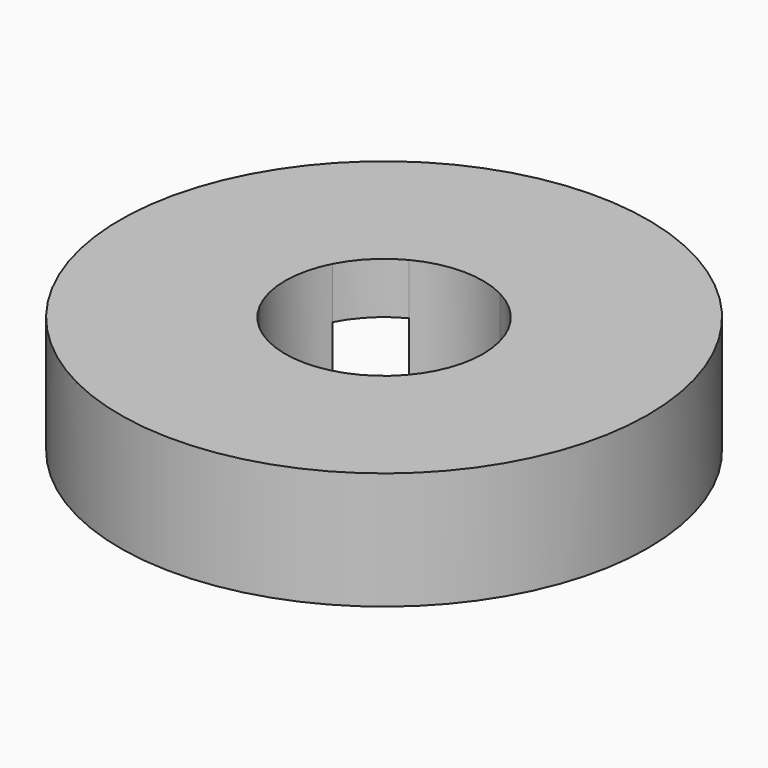
from build123d import *

# Parameters (mm, degrees)
F0_R     = 9
F1_DEPTH = 4
F2_DEPTH = 2.25


with BuildPart() as f1:
    # F0 (on Top) → F1 (new body)
    with BuildSketch(Plane.XY):
        Circle(F0_R)
        with BuildLine():
            ThreePointArc((3.0001584051, 1.5458572199), (3.27995119, 0.7953270971), (3.375, 0))
            ThreePointArc((3.375, 0), (3.27995119, -0.7953270971), (3.0001584051, -1.5458572199))
            ThreePointArc((3.0001584051, -1.5458572199), (5.4786682815, -1.8009001584), (6.65, -4))
            ThreePointArc((6.65, -4), (3.4905779585, -6.6005747795), (1.5458572199, -3.0001584051))
            ThreePointArc((1.5458572199, -3.0001584051), (0, -3.375), (-1.5458572199, -3.0001584051))
            ThreePointArc((-1.5458572199, -3.0001584051), (-1.3994252205, -3.4905779585), (-1.35, -4))
            ThreePointArc((-1.35, -4), (-6.1990998416, -5.4786682815), (-3.0001584051, -1.5458572199))
            ThreePointArc((-3.0001584051, -1.5458572199), (-3.375, 0), (-3.0001584051, 1.5458572199))
            ThreePointArc((-3.0001584051, 1.5458572199), (-6.1990998416, 5.4786682815), (-1.35, 4))
            ThreePointArc((-1.35, 4), (-1.3994252205, 3.4905779585), (-1.5458572199, 3.0001584051))
            ThreePointArc((-1.5458572199, 3.0001584051), (0, 3.375), (1.5458572199, 3.0001584051))
            ThreePointArc((1.5458572199, 3.0001584051), (3.4905779585, 6.6005747795), (6.65, 4))
            ThreePointArc((6.65, 4), (5.4786682815, 1.8009001584), (3.0001584051, 1.5458572199))
        make_face(mode=Mode.SUBTRACT)
        with BuildLine():
            ThreePointArc((-1.35, -4), (-1.3994252205, -3.4905779585), (-1.5458572199, -3.0001584051))
            ThreePointArc((-1.5458572199, -3.0001584051), (-2.3864853865, -2.3864853865), (-3.0001584051, -1.5458572199))
            ThreePointArc((-3.0001584051, -1.5458572199), (-6.1990998416, -5.4786682815), (-1.35, -4))
        make_face()
        with BuildLine():
            ThreePointArc((6.65, -4), (5.4786682815, -1.8009001584), (3.0001584051, -1.5458572199))
            ThreePointArc((3.0001584051, -1.5458572199), (2.3864853865, -2.3864853865), (1.5458572199, -3.0001584051))
            ThreePointArc((1.5458572199, -3.0001584051), (3.4905779585, -6.6005747795), (6.65, -4))
        make_face()
        with BuildLine():
            ThreePointArc((1.5458572199, 3.0001584051), (2.3864853865, 2.3864853865), (3.0001584051, 1.5458572199))
            ThreePointArc((3.0001584051, 1.5458572199), (5.4786682815, 1.8009001584), (6.65, 4))
            ThreePointArc((6.65, 4), (3.4905779585, 6.6005747795), (1.5458572199, 3.0001584051))
        make_face()
        with BuildLine():
            ThreePointArc((-3.0001584051, 1.5458572199), (-2.3864853865, 2.3864853865), (-1.5458572199, 3.0001584051))
            ThreePointArc((-1.5458572199, 3.0001584051), (-1.3994252205, 3.4905779585), (-1.35, 4))
            ThreePointArc((-1.35, 4), (-6.1990998416, 5.4786682815), (-3.0001584051, 1.5458572199))
        make_face()
    extrude(amount=F1_DEPTH)

    # F0 (on Top) → F2 (cut)
    with BuildSketch(Plane.XY):
        with BuildLine():
            ThreePointArc((-1.35, -4), (-1.3994252205, -3.4905779585), (-1.5458572199, -3.0001584051))
            ThreePointArc((-1.5458572199, -3.0001584051), (-2.3864853865, -2.3864853865), (-3.0001584051, -1.5458572199))
            ThreePointArc((-3.0001584051, -1.5458572199), (-6.1990998416, -5.4786682815), (-1.35, -4))
        make_face()
        with BuildLine():
            ThreePointArc((6.65, -4), (5.4786682815, -1.8009001584), (3.0001584051, -1.5458572199))
            ThreePointArc((3.0001584051, -1.5458572199), (2.3864853865, -2.3864853865), (1.5458572199, -3.0001584051))
            ThreePointArc((1.5458572199, -3.0001584051), (3.4905779585, -6.6005747795), (6.65, -4))
        make_face()
        with BuildLine():
            ThreePointArc((1.5458572199, 3.0001584051), (2.3864853865, 2.3864853865), (3.0001584051, 1.5458572199))
            ThreePointArc((3.0001584051, 1.5458572199), (5.4786682815, 1.8009001584), (6.65, 4))
            ThreePointArc((6.65, 4), (3.4905779585, 6.6005747795), (1.5458572199, 3.0001584051))
        make_face()
        with BuildLine():
            ThreePointArc((-3.0001584051, 1.5458572199), (-2.3864853865, 2.3864853865), (-1.5458572199, 3.0001584051))
            ThreePointArc((-1.5458572199, 3.0001584051), (-1.3994252205, 3.4905779585), (-1.35, 4))
            ThreePointArc((-1.35, 4), (-6.1990998416, 5.4786682815), (-3.0001584051, 1.5458572199))
        make_face()
    extrude(amount=F2_DEPTH, mode=Mode.SUBTRACT)


solid = f1.part
